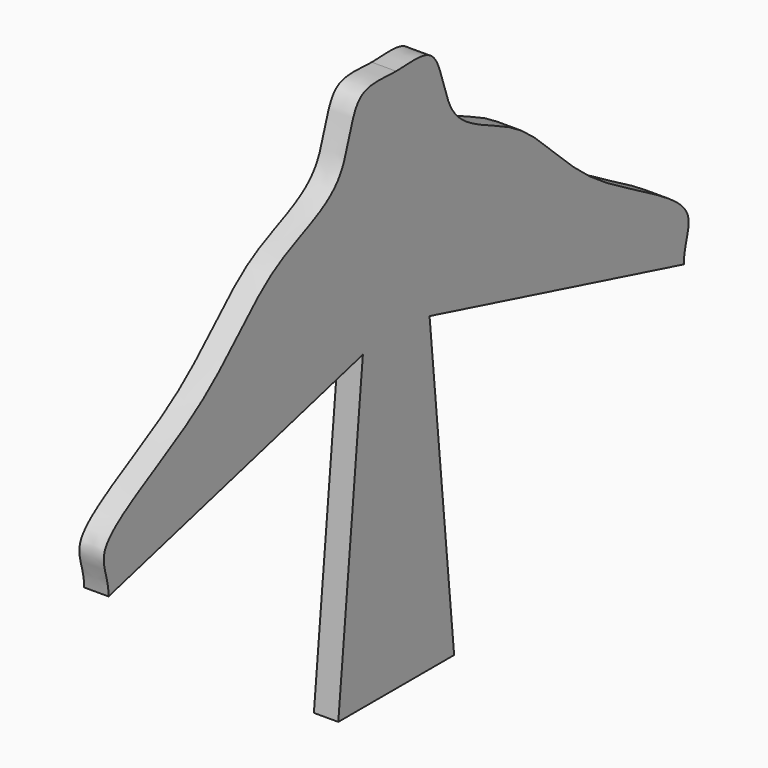
from build123d import *

# Parameters (mm, degrees)
F1_DEPTH = 3.175


with BuildPart() as f1:
    # F0 (on Right) → F1 (new body)
    with BuildSketch(Plane.YZ):
        with BuildLine():
            Line((-9.4129415229, -29.5406151563), (0, -29.5406151563))
            Line((0, -29.5406151563), (0, 41.1162637174))
            add(Edge.make_bspline(
                [(-46.7556864023, 0), (-46.7155797399, 2.3233844605), (-50.4544850576, 6.847598193), (-30.0801802857, 14.8299527049), (-21.2263853375, 27.7138256022), (-7.6250903808, 30.4944493686), (-7.485573995, 42.3274200027), (-1.7987550441, 41.0785676659), (0, 41.1162637174)],
                knots=[0, 0, 0, 0, 0.1217527977, 0.3397919823, 0.5496327355, 0.7258314565, 0.8763297821, 1, 1, 1, 1], degree=3))
            Line((-46.7556864023, 0), (-5.4196935745, 10.881440714))
            Line((-5.4196935745, 10.881440714), (-9.4129415229, -29.5406151563))
        make_face()
        with BuildLine():
            Line((0, 41.1162637174), (0, -29.5406151563))
            Line((0, -29.5406151563), (9.4129415229, -29.5406151563))
            Line((9.4129415229, -29.5406151563), (5.4196935745, 10.881440714))
            Line((5.4196935745, 10.881440714), (46.7556864023, 0))
            add(Edge.make_bspline(
                [(46.7556864023, 0), (46.7155797399, 2.3233844605), (50.4544850576, 6.847598193), (30.0801802857, 14.8299527049), (21.2263853375, 27.7138256022), (7.6250903808, 30.4944493686), (7.485573995, 42.3274200027), (1.7987550441, 41.0785676659), (0, 41.1162637174)],
                knots=[0, 0, 0, 0, 0.1217527977, 0.3397919823, 0.5496327355, 0.7258314565, 0.8763297821, 1, 1, 1, 1], degree=3))
        make_face()
    extrude(amount=F1_DEPTH)


solid = f1.part
